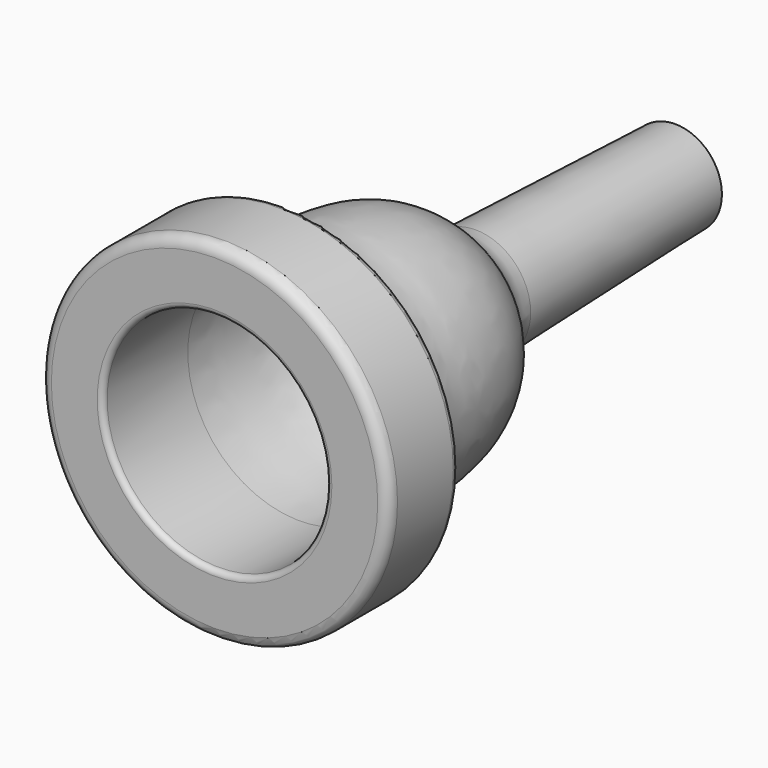
from build123d import *


with BuildPart() as f1:
    # F0 (on Top) → F1 (revolve)
    with BuildSketch(Plane.XY):
        with BuildLine():
            ThreePointArc((22.25, 0), (23.3106601718, 0.4393398282), (23.75, 1.5))
            Line((23.75, 1.5), (23.75, 10.9999999801))
            ThreePointArc((23.75, 10.9999999801), (23.4571067742, 11.7071067683), (22.7499999801, 11.9999999801))
            Line((22.7499999801, 11.9999999801), (21.2499999801, 11.9999999503))
            ThreePointArc((21.2499999801, 11.9999999503), (19.2344355291, 12.7004901534), (18.0877222702, 14.4999998874))
            add(Edge.make_bspline(
                [(7.5, 44.4999998874), (7.6054971803, 41.3116406604), (11.5213671507, 38.8462409165), (16.4772094085, 31.8951817693), (17.1113870409, 20.6044761685), (17.0468668855, 18.8886311394), (18.0877222702, 14.4999998874)],
                knots=[0, 0, 0, 0, 0.2330886418, 0.487954652, 0.7622475065, 1, 1, 1, 1], degree=3))
            Line((7.5, 44.4999998874), (6.375, 78.4999998874))
            Line((6.375, 78.4999998874), (5.2, 78.4611212109))
            Line((5.2, 78.4611212109), (6.4147062203, 41.7499998874))
            add(Edge.make_bspline(
                [(15.25, 14.4999998874), (15.25, 16.754901156), (14.8872660997, 21.5572014629), (14.3382432317, 31.5445858305), (11.2093232348, 35.2643194805), (8.6409520102, 38.3576745947), (6.4473344323, 40.7639028118), (6.4147062203, 41.7499998874)],
                knots=[0, 0, 0, 0, 0.2249343375, 0.4856499114, 0.6652148959, 0.8362100892, 1, 1, 1, 1], degree=3))
            Line((15.25, 14.4999998874), (15.25, 0.75))
            ThreePointArc((15.25, 0.75), (15.4696699141, 0.2196699141), (16, 0))
            Line((16, 0), (22.25, 0))
        make_face()
    revolve(axis=Axis((0, 45, 0), (0, 1, 0)))


solid = f1.part
